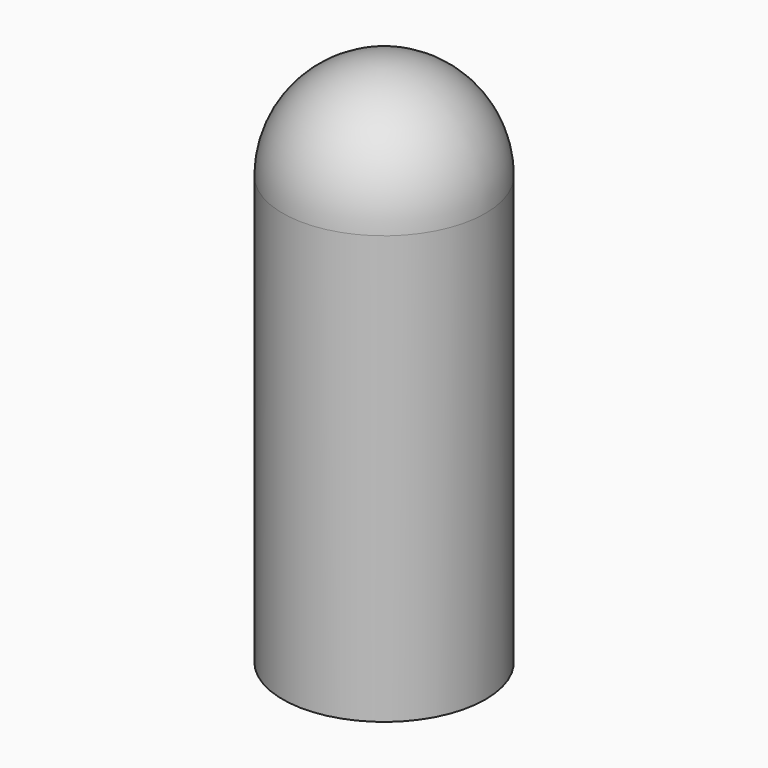
from build123d import *

# Parameters (mm, degrees)
F0_R     = 2.49
F1_DEPTH = 13
F2_R     = 1.25
F3_DEPTH = 7
F4_R     = 2.49


with BuildPart() as f1:
    # F0 (on Top) → F1 (new body)
    with BuildSketch(Plane.XY):
        Circle(F0_R)
    extrude(amount=F1_DEPTH)

    # F2 (on face) → F3 (cut)
    with BuildSketch(Plane(origin=(0, 0, 0), x_dir=(1, 0, 0), z_dir=(0, 0, -1))):
        Circle(F2_R)
    extrude(amount=-F3_DEPTH, mode=Mode.SUBTRACT)

    # F4
    f4_edges = [f1.edges().sort_by_distance(p)[0] for p in [
        (-2.49, 0, 13),
    ]]
    fillet(f4_edges, radius=F4_R)


solid = f1.part
